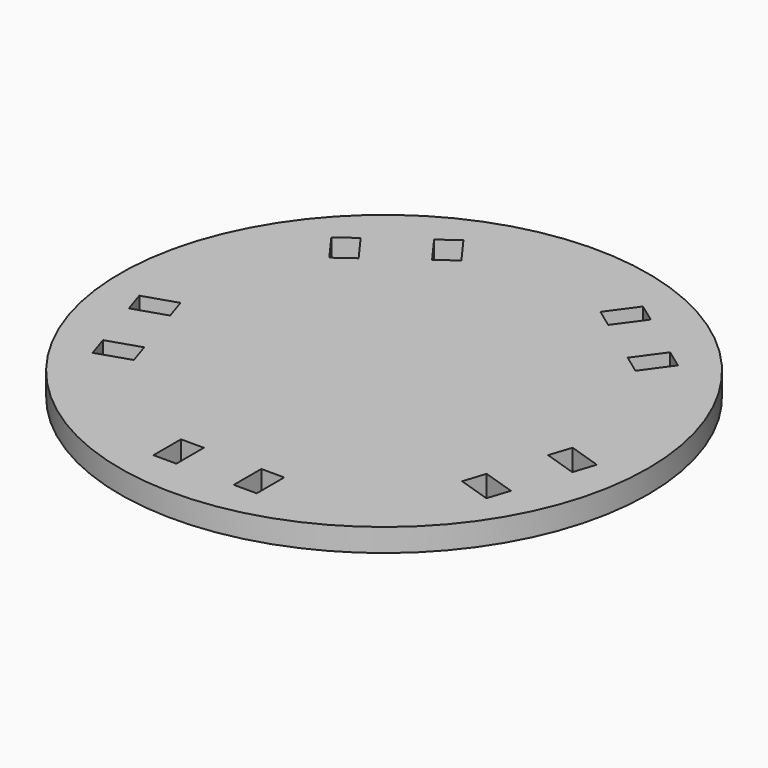
from build123d import *

# Parameters (mm, degrees)
SKETCH075_R           = 23
PAD030_DEPTH          = 2
SKETCH076_W           = 3
SKETCH076_H           = 2
POCKET040_DEPTH       = 5
POLARPATTERN004_COUNT = 5


with BuildPart() as part:
    # Sketch075 → Pad030 (new body)
    with BuildSketch(Plane.XY):
        Circle(SKETCH075_R)
    extrude(amount=PAD030_DEPTH)

    # Sketch076 → Pocket040 (cut)
    with BuildSketch(Plane(origin=(0, -18, 0), x_dir=(0, 1, 0), z_dir=(0, 0, 1))):
        with Locations((0, 3.5)):
            Rectangle(SKETCH076_W, SKETCH076_H)
        with Locations((0, -3.5)):
            Rectangle(SKETCH076_W, SKETCH076_H)
    pocket040 = extrude(amount=POCKET040_DEPTH, mode=Mode.SUBTRACT)

    # PolarPattern004: Pocket040 ×5 about axis
    polarpattern004_axis = Axis((0, 0, 0), (0, 0, 1))
    for i in range(1, POLARPATTERN004_COUNT):
        add(pocket040.rotate(polarpattern004_axis, i * 360 / POLARPATTERN004_COUNT), mode=Mode.SUBTRACT)


solid = part.part
